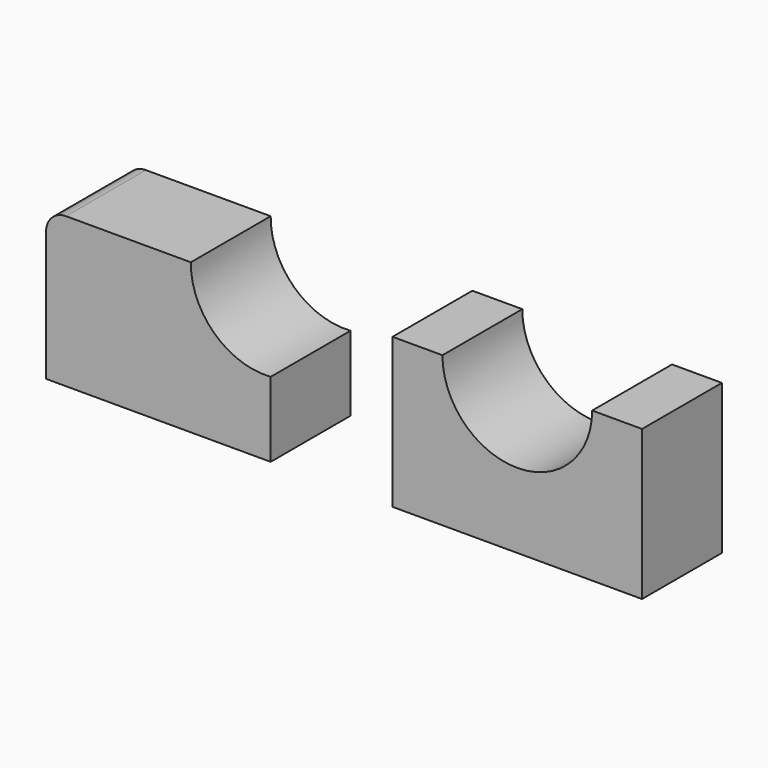
from build123d import *

# Parameters (mm, degrees)
F0_W     = 57.15
F0_H     = 38.1
F1_DEPTH = 25.4
F2_R     = 5.08
F3_W     = 63.5
F3_H     = 38.1
F4_DEPTH = 25.4
F5_R     = 19.05
F6_DEPTH = 25.4
F8_DEPTH = 25.4


with BuildPart() as f1:
    # F0 (on Front) → F1 (new body)
    with BuildSketch(Plane.XZ):
        with Locations((-53.592469, 19.05)):
            Rectangle(F0_W, F0_H)
    extrude(amount=F1_DEPTH)

    # F2
    f2_edges = [f1.edges().sort_by_distance(p)[0] for p in [
        (-82.167469, -12.7, 38.1),
    ]]
    fillet(f2_edges, radius=F2_R)

    # F7 (on face) → F8 (cut)
    with BuildSketch(Plane.XZ.offset(25.4)):
        with BuildLine():
            Line((-25.017469, 38.1), (-45.337469, 38.1))
            ThreePointArc((-45.337469, 38.1), (-39.352847, 24.121264), (-25.017469, 19.05))
            Line((-25.017469, 19.05), (-25.017469, 38.1))
        make_face()
    extrude(amount=-F8_DEPTH, mode=Mode.SUBTRACT)


with BuildPart() as f4:
    # F3 (on Front) → F4 (new body)
    with BuildSketch(Plane.XZ):
        with Locations((37.734434, 19.05)):
            Rectangle(F3_W, F3_H)
    extrude(amount=F4_DEPTH)

    # F5 (on face) → F6 (cut)
    with BuildSketch(Plane.XZ.offset(25.4)):
        with Locations((37.734434, 38.1)):
            Circle(F5_R)
    extrude(amount=-F6_DEPTH, mode=Mode.SUBTRACT)


solid = Compound([f1.part, f4.part])
